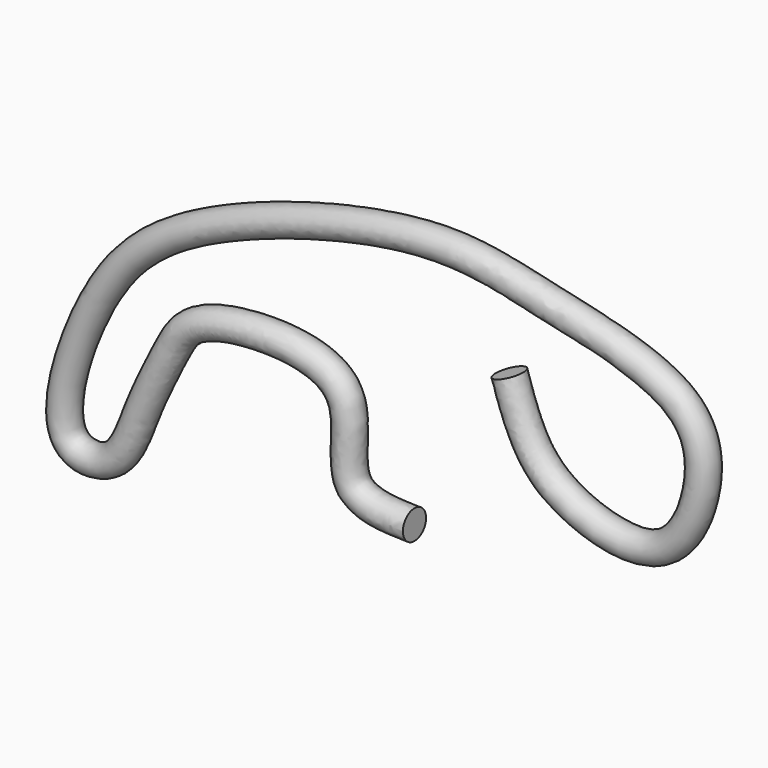
from build123d import *

# Parameters (mm, degrees)
F1_R = 6.35


with BuildPart() as f2:
    # F2: sweep along a path in F0
    with BuildLine(Plane.XZ) as f2_path:
        add(Plane.XZ * Edge.make_bspline(
            [(0, 0), (-11.6266109516, 0.2387042277), (-35.9453386789, 0.7379884254), (-19.7710963387, 49.3589670223), (-71.194608748, 54.5765593619), (-98.4636447073, 47.0336352962), (-106.4063633933, 32.986632333), (-120.255274821, 4.9828786023), (-128.567495081, -21.6150936886), (-162.1331880762, -21.2249353492), (-141.2527282424, 48.4389323234), (-99.5868584202, 88.6933002477), (6.0837864658, 118.7138774608), (55.4334825994, 105.1208509677), (127.8278353875, 91.0695608732), (127.9345470054, 49.0661246778), (108.0859693229, 16.3145932293), (59.8787236196, 31.5634055543), (47.4046081206, 54.188502919), (43.4319055641, 66.4707345619), (41.6067875922, 72.1133723855)],
            knots=[0, 0, 0, 0, 0.0481753453, 0.1007656583, 0.1589899409, 0.2070812565, 0.2418216586, 0.2931259517, 0.3398002978, 0.3783933654, 0.4470248805, 0.5193258939, 0.6113640223, 0.6795668917, 0.7522256013, 0.8046492364, 0.8560187506, 0.9154717785, 0.9611664921, 1, 1, 1, 1], degree=3))
    # F1 (on Right) → F2 (sweep)
    with BuildSketch(Plane.YZ):
        Circle(F1_R)
    sweep(path=f2_path.line)


solid = f2.part
